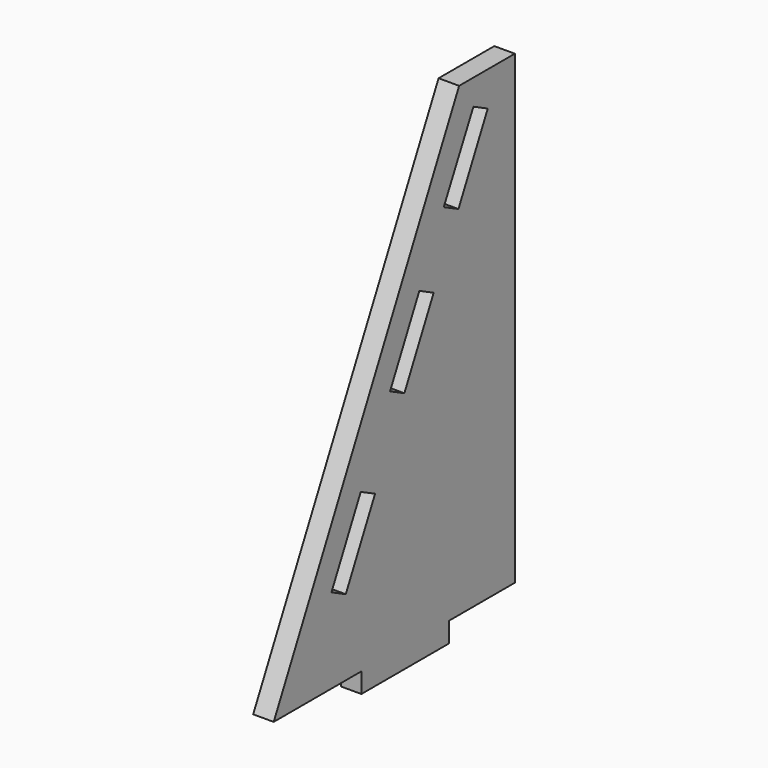
from build123d import *

# Parameters (mm, degrees)
F0_W     = 101.6
F0_H     = 18.542
F1_DEPTH = 19.05


with BuildPart() as f1:
    # F0 (on Right) → F1 (new body)
    with BuildSketch(Plane.YZ):
        with Locations((-32.938892, -237.292768)):
            Rectangle(F0_W, F0_H)
        Polygon((29.513441, 203.778232), (-185.338892, -228.021768), (-83.738892, -228.021768), (17.861108, -228.021768), (94.061108, -228.021768), (94.061108, 203.778232), align=None)
        Polygon((-84.490933, -81.266846), (-67.890385, -89.526843), (-101.835577, -157.748276), (-118.436126, -149.488279), align=None, mode=Mode.SUBTRACT)
        Polygon((-33.945192, -21.30541), (-50.545741, -13.045413), (-16.600549, 55.17602), (0, 46.916023), align=None, mode=Mode.SUBTRACT)
        Polygon((28.74247, 103.540916), (11.687112, 112.027214), (46.087113, 180.022346), (62.687662, 171.762349), align=None, mode=Mode.SUBTRACT)
    extrude(amount=F1_DEPTH)


solid = f1.part
